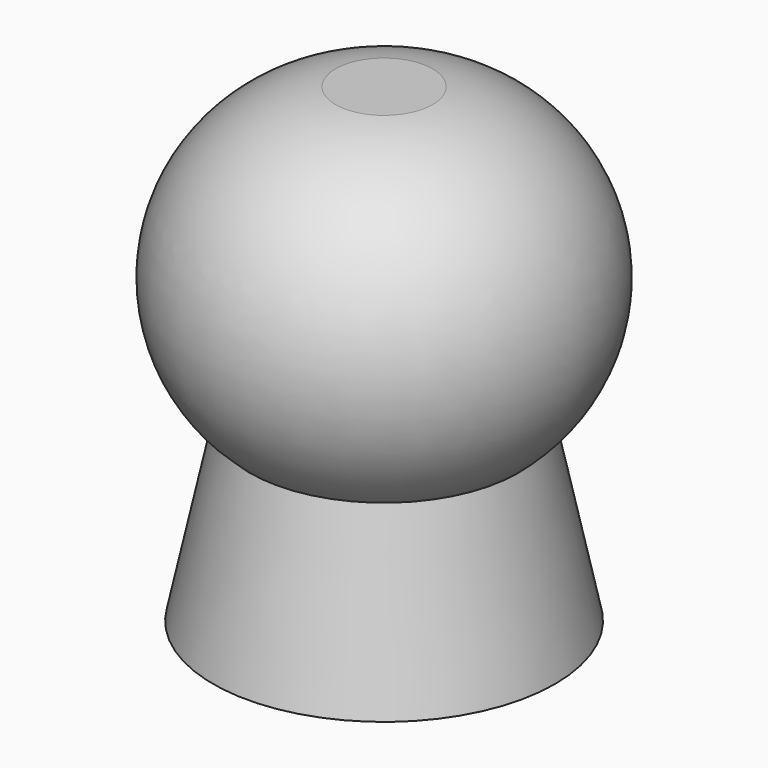
from build123d import *

# Parameters (mm, degrees)
F2_R     = 1.85
F3_DEPTH = 5


with BuildPart() as f1:
    # F0 (on Front) → F1 (revolve)
    with BuildSketch(Plane.XZ):
        with BuildLine():
            Line((0, 11), (0, 0))
            Line((0, 0), (4, 0))
            Line((4, 0), (3.13562, 4.063609))
            ThreePointArc((3.13562, 4.063609), (4.368818, 8.175965), (1.135078, 11))
            Line((1.135078, 11), (0, 11))
        make_face()
    revolve(axis=Axis((0, 0, 1.786763), (0, 0, -1)))

    # F2 (on face) → F3 (cut)
    with BuildSketch(Plane(origin=(0, 0, 0), x_dir=(1, 0, 0), z_dir=(0, 0, -1))):
        Circle(F2_R)
    extrude(amount=-F3_DEPTH, mode=Mode.SUBTRACT)


solid = f1.part
